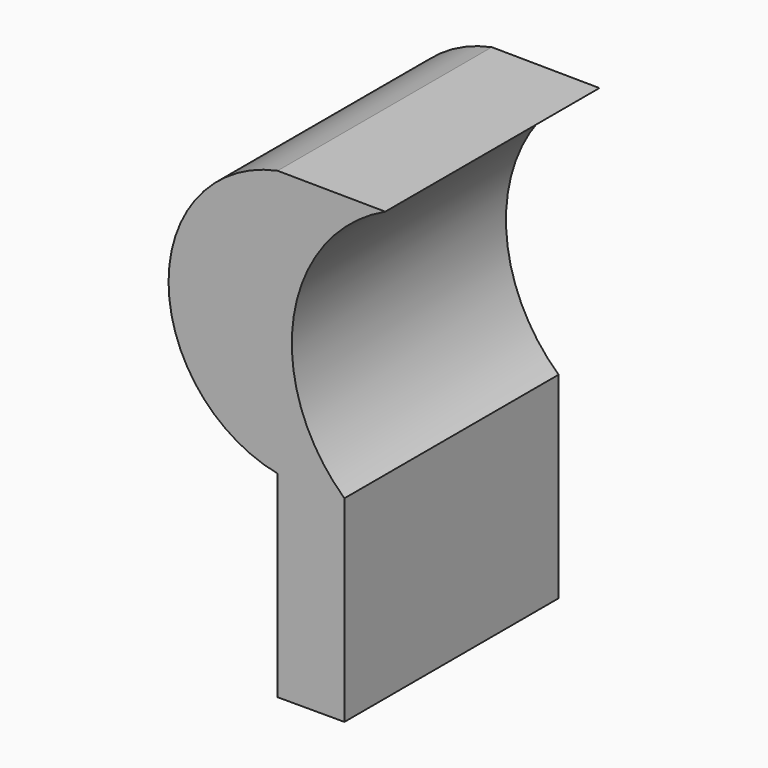
from build123d import *

# Parameters (mm, degrees)
F1_DEPTH = 76.2


with BuildPart() as f1:
    # F0 (on Front) → F1 (new body)
    with BuildSketch(Plane.XZ):
        with BuildLine():
            Line((-29.08165, -56.035373), (-29.08165, 0))
            ThreePointArc((-29.08165, 0), (-43.520037, 40.922253), (-17.44899, 75.612284))
            Line((-17.44899, 75.612284), (-48.091117, 75.89601))
            ThreePointArc((-48.091117, 75.89601), (-79.137953, 37.948005), (-48.091117, 0))
            Line((-48.091117, 0), (-48.091117, -56.035373))
            Line((-48.091117, -56.035373), (-29.08165, -56.035373))
        make_face()
    extrude(amount=F1_DEPTH)


solid = f1.part
